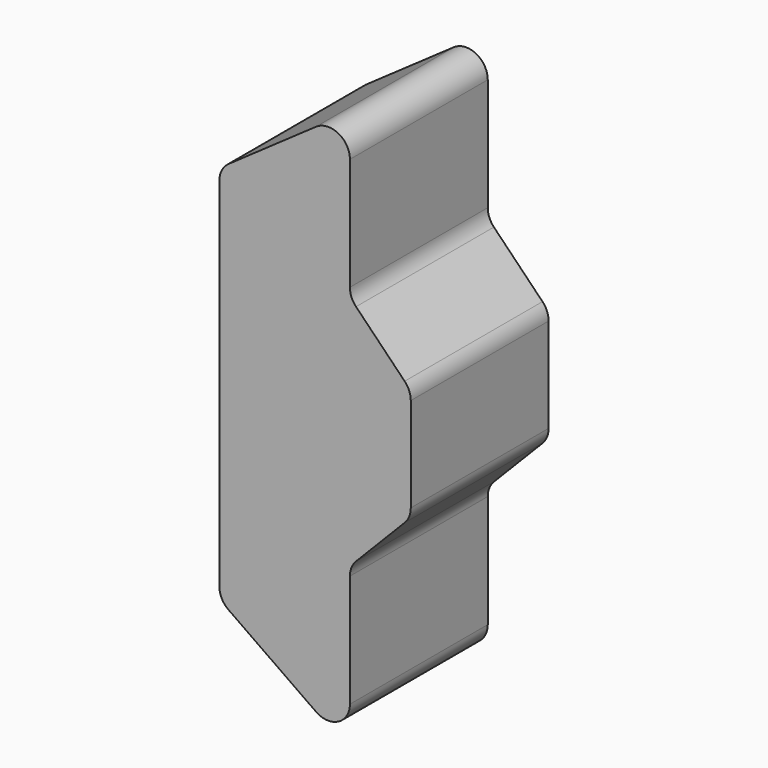
from build123d import *

# Parameters (mm, degrees)
F1_DEPTH = 25.4
F2_DEPTH = 25.4


with BuildPart() as f1:
    # F0 (on Front) → F1 (new body)
    with BuildSketch(Plane.XZ):
        with BuildLine():
            Line((-29.6519356012, 52.650562261), (-29.6519356012, 0))
            Line((-29.6519356012, 0), (-29.6519356012, -52.650562261))
            ThreePointArc((-29.6519356012, -52.650562261), (-28.9342502123, -55.5830581471), (-26.9434215471, -57.8526849149))
            Line((-26.9434215471, -57.8526849149), (-1.1631480992, -75.8988767652))
            ThreePointArc((-1.1631480992, -75.8988767652), (5.4108337328, -76.3290687224), (8.8283378467, -70.6967541113))
            Line((8.8283378467, -70.6967541113), (8.8283378467, -37.4758915701))
            ThreePointArc((8.8283378467, -37.4758915701), (9.2975107187, -35.0804015806), (10.6356991979, -33.0388955022))
            Line((10.6356991979, -33.0388955022), (24.9684960825, -18.364842139))
            ThreePointArc((24.9684960825, -18.364842139), (26.3066845617, -16.3233360606), (26.7758574337, -13.9278460711))
            Line((26.7758574337, -13.9278460711), (26.7758574337, 0))
            Line((26.7758574337, 0), (26.7758574337, 13.9278460711))
            ThreePointArc((26.7758574337, 13.9278460711), (26.3066845617, 16.3233360606), (24.9684960825, 18.364842139))
            Line((24.9684960825, 18.364842139), (10.6356991979, 33.0388955022))
            ThreePointArc((10.6356991979, 33.0388955022), (9.2975107187, 35.0804015806), (8.8283378467, 37.4758915701))
            Line((8.8283378467, 37.4758915701), (8.8283378467, 70.6967541113))
            ThreePointArc((8.8283378467, 70.6967541113), (5.4108337328, 76.3290687224), (-1.1631480992, 75.8988767652))
            Line((-1.1631480992, 75.8988767652), (-26.9434215471, 57.8526849149))
            ThreePointArc((-26.9434215471, 57.8526849149), (-28.9342502123, 55.5830581471), (-29.6519356012, 52.650562261))
        make_face()
    extrude(amount=F1_DEPTH)

    # F2 (add): a face of the model
    f2_faces = [f1.faces().sort_by_distance(p)[0] for p in [
        (-5.4722080817, -25.4, 0),
    ]]
    extrude(f2_faces, amount=F2_DEPTH)


solid = f1.part
